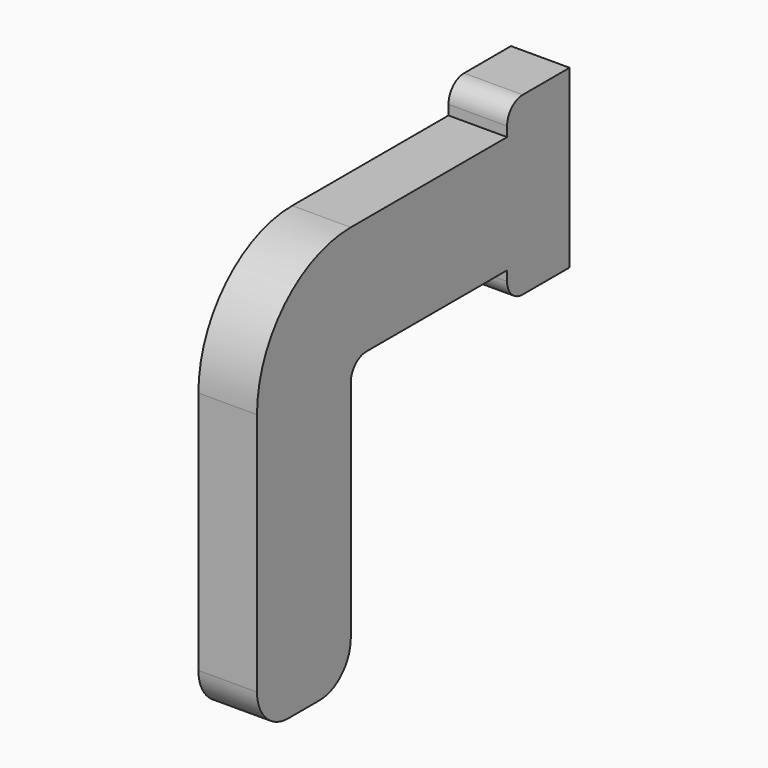
from build123d import *

# Parameters (mm, degrees)
PAD003_DEPTH = 0.375
FILLET001_R  = 1.5
FILLET002_R  = 0.25
FILLET003_R  = 0.5


with BuildPart() as part:
    # Sketch007 → Pad003 (new body, symmetric)
    with BuildSketch(Plane.YZ):
        Polygon((-3, 4.75), (-4, 4.75), (-4, 4.375), (-8, 4.375), (-8, -0.75), (-6.5, -0.75), (-6.5, 2.875), (-4, 2.875), (-4, 2.5), (-3, 2.5), align=None)
    extrude(amount=PAD003_DEPTH, both=True)

    # Fillet001
    fillet001_edges = [part.edges().sort_by_distance(p)[0] for p in [
        (0, -8, 4.375),
    ]]
    fillet(fillet001_edges, radius=FILLET001_R)

    # Fillet002
    fillet002_edges = [part.edges().sort_by_distance(p)[0] for p in [
        (0, -4, 4.75),
        (0, -4, 2.5),
        (0, -6.5, 2.875),
    ]]
    fillet(fillet002_edges, radius=FILLET002_R)

    # Fillet003
    fillet003_edges = [part.edges().sort_by_distance(p)[0] for p in [
        (0, -8, -0.75),
        (0, -6.5, -0.75),
    ]]
    fillet(fillet003_edges, radius=FILLET003_R)


solid = part.part
